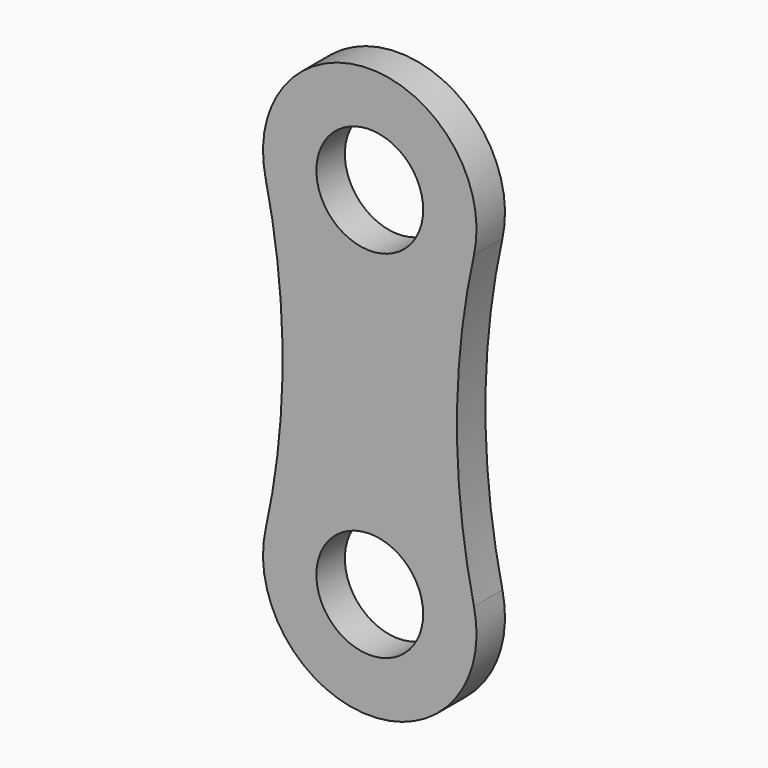
from build123d import *

# Parameters (mm, degrees)
F0_R     = 76.2
F1_DEPTH = 50.8


with BuildPart() as f1:
    # F0 (on Front) → F1 (new body)
    with BuildSketch(Plane.XZ):
        with BuildLine():
            ThreePointArc((-148.755283, 474.869565), (-124.457171, 254), (-148.755283, 33.130435))
            ThreePointArc((-148.755283, 33.130435), (0, -152.4), (148.755283, 33.130435))
            ThreePointArc((148.755283, 33.130435), (124.457171, 254), (148.755283, 474.869565))
            ThreePointArc((148.755283, 474.869565), (0, 660.4), (-148.755283, 474.869565))
        make_face()
        Circle(F0_R, mode=Mode.SUBTRACT)
        with Locations((0, 508)):
            Circle(F0_R, mode=Mode.SUBTRACT)
    extrude(amount=F1_DEPTH)


solid = f1.part
